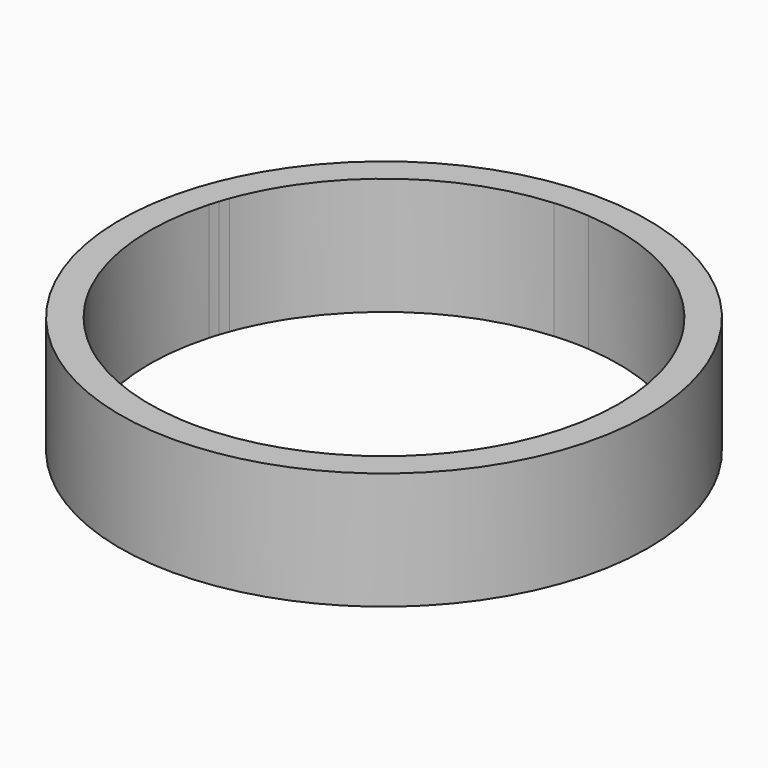
from build123d import *

# Parameters (mm, degrees)
F1_DEPTH = 2.54
F2_DEPTH = 25.4


with BuildPart() as f1:
    # F0 (on Top) → F1 (new body)
    with BuildSketch(Plane.XY):
        with BuildLine():
            ThreePointArc((48.915112113, 13.7095516693), (50.3265719841, 6.9192595218), (50.8, 0))
            ThreePointArc((50.8, 0), (49.520723989, -11.328631674), (45.7473269447, -22.0866945787))
            Line((45.7473269447, -22.0866945787), (49.4933518263, -28.575))
            ThreePointArc((49.4933518263, -28.575), (55.2026609724, -14.7915084276), (57.15, 0))
            ThreePointArc((57.15, 0), (56.446388665, 8.940229677), (54.3528799063, 17.6603212285))
            Line((54.3528799063, 17.6603212285), (48.915112113, 13.7095516693))
        make_face()
        with BuildLine():
            ThreePointArc((48.3136710278, 15.6980633142), (48.624557709, 14.7068823209), (48.915112113, 13.7095516693))
            Line((48.915112113, 13.7095516693), (54.3528799063, 17.6603212285))
            Line((54.3528799063, 17.6603212285), (47.6314292679, 17.6603212285))
            ThreePointArc((47.6314292679, 17.6603212285), (47.982582066, 16.6826801888), (48.3136710278, 15.6980633142))
        make_face()
        with BuildLine():
            Line((49.4933518263, -28.575), (45.7473269447, -22.0866945787))
            ThreePointArc((45.7473269447, -22.0866945787), (44.9012806053, -23.759524406), (43.9940905122, -25.4))
            ThreePointArc((43.9940905122, -25.4), (43.0269920201, -27.0058874637), (42.0013020632, -28.575))
            Line((42.0013020631, -28.575), (49.4933518263, -28.575))
        make_face()
        with BuildLine():
            Line((47.6314292679, 17.6603212285), (54.3528799063, 17.6603212285))
            ThreePointArc((54.3528799063, 17.6603212285), (52.2091229043, 23.2449991518), (49.4933518263, 28.575))
            Line((49.4933518263, 28.575), (45.7473269447, 22.0866945787))
            ThreePointArc((45.7473269447, 22.0866945787), (46.7418038079, 19.895823099), (47.6314292679, 17.6603212285))
        make_face()
        with BuildLine():
            ThreePointArc((33.5919271685, -46.2353212285), (42.470726776, -38.2408141534), (49.4933518263, -28.575))
            Line((49.4933518263, -28.575), (42.0013020631, -28.575))
            ThreePointArc((42.0013020632, -28.575), (37.1873431903, -34.6084022522), (31.5148846944, -39.8428418))
            Line((31.5148846944, -39.8428418), (33.5919271685, -46.2353212285))
        make_face()
        with BuildLine():
            Line((42.0013020632, 28.575), (49.4933518263, 28.575))
            ThreePointArc((49.4933518263, 28.575), (28.575, 49.4933518263), (0, 57.15))
            Line((0, 57.15), (3.7460248816, 50.6616945787))
            ThreePointArc((3.7460248816, 50.6616945787), (25.4, 43.9940905122), (42.0013020632, 28.575))
        make_face()
        with BuildLine():
            Line((45.7473269447, 22.0866945787), (49.4933518263, 28.575))
            Line((49.4933518263, 28.575), (42.0013020632, 28.575))
            ThreePointArc((42.0013020632, 28.575), (43.0269920201, 27.0058874637), (43.9940905122, 25.4))
            ThreePointArc((43.9940905122, 25.4), (44.9012806053, 23.759524406), (45.7473269447, 22.0866945787))
        make_face()
        with BuildLine():
            Line((28.1541593752, -42.2845516693), (33.5919271685, -46.2353212285))
            Line((33.5919271685, -46.2353212285), (31.5148846944, -39.8428418))
            ThreePointArc((31.5148846944, -39.8428418), (30.6936049952, -40.4789156525), (29.8594908165, -41.0980633142))
            ThreePointArc((29.8594908165, -41.0980633142), (29.0128909417, -41.7000258897), (28.1541593752, -42.2845516693))
        make_face()
        with BuildLine():
            ThreePointArc((0, -57.15), (17.6603212285, -54.3528799063), (33.5919271685, -46.2353212285))
            Line((33.5919271685, -46.2353212285), (28.1541593752, -42.2845516693))
            ThreePointArc((28.1541593752, -42.2845516693), (16.4908935396, -48.0488338075), (3.7460248816, -50.6616945787))
            Line((3.7460248816, -50.6616945787), (0, -57.15))
        make_face()
        with BuildLine():
            Line((-3.7460248816, 50.6616945787), (0, 57.15))
            ThreePointArc((0, 57.15), (-28.575, 49.4933518263), (-49.4933518263, 28.575))
            Line((-49.4933518263, 28.575), (-42.0013020632, 28.575))
            ThreePointArc((-42.0013020632, 28.575), (-25.4, 43.9940905122), (-3.7460248816, 50.6616945787))
        make_face()
        with BuildLine():
            Line((2.0770424741, 50.7575205714), (0, 57.15))
            Line((0, 57.15), (-2.0770424741, 50.7575205714))
            ThreePointArc((-2.0770424741, 50.7575205714), (-1.0387384104, 50.7893790326), (0, 50.8))
            ThreePointArc((0, 50.8), (1.0387384104, 50.7893790326), (2.0770424741, 50.7575205714))
        make_face()
        with BuildLine():
            Line((3.7460248816, 50.6616945787), (0, 57.15))
            Line((0, 57.15), (2.0770424741, 50.7575205714))
            ThreePointArc((2.0770424741, 50.7575205714), (2.9119278858, 50.7164734183), (3.7460248816, 50.6616945787))
        make_face()
        with BuildLine():
            Line((-2.0770424741, 50.7575205714), (0, 57.15))
            Line((0, 57.15), (-3.7460248816, 50.6616945787))
            ThreePointArc((-3.7460248816, 50.6616945787), (-2.9119278858, 50.7164734183), (-2.0770424741, 50.7575205714))
        make_face()
        with BuildLine():
            ThreePointArc((-33.5919271685, -46.2353212285), (-17.6603212285, -54.3528799063), (0, -57.15))
            Line((0, -57.15), (-3.7460248816, -50.6616945787))
            ThreePointArc((-3.7460248816, -50.6616945787), (-16.4908935396, -48.0488338075), (-28.1541593752, -42.2845516693))
            Line((-28.1541593752, -42.2845516693), (-33.5919271685, -46.2353212285))
        make_face()
        with BuildLine():
            Line((-3.7460248816, -50.6616945787), (0, -57.15))
            Line((0, -57.15), (3.7460248816, -50.6616945787))
            ThreePointArc((3.7460248816, -50.6616945787), (1.8742885852, -50.7654118697), (0, -50.8))
            ThreePointArc((0, -50.8), (-1.8742885852, -50.7654118697), (-3.7460248816, -50.6616945787))
        make_face()
        with BuildLine():
            Line((-45.7473269447, 22.0866945787), (-49.4933518263, 28.575))
            ThreePointArc((-49.4933518263, 28.575), (-52.2091229043, 23.2449991518), (-54.3528799063, 17.6603212285))
            Line((-54.3528799063, 17.6603212285), (-47.6314292679, 17.6603212285))
            ThreePointArc((-47.6314292679, 17.6603212285), (-46.7418038079, 19.895823099), (-45.7473269447, 22.0866945787))
        make_face()
        with BuildLine():
            Line((-42.0013020632, 28.575), (-49.4933518263, 28.575))
            Line((-49.4933518263, 28.575), (-45.7473269447, 22.0866945787))
            ThreePointArc((-45.7473269447, 22.0866945787), (-44.9012806053, 23.759524406), (-43.9940905122, 25.4))
            ThreePointArc((-43.9940905122, 25.4), (-43.0269920201, 27.0058874637), (-42.0013020632, 28.575))
        make_face()
        with BuildLine():
            Line((-31.5148846944, -39.8428418), (-33.5919271685, -46.2353212285))
            Line((-33.5919271685, -46.2353212285), (-28.1541593752, -42.2845516693))
            ThreePointArc((-28.1541593752, -42.2845516693), (-29.0128909417, -41.7000258897), (-29.8594908165, -41.0980633142))
            ThreePointArc((-29.8594908165, -41.0980633142), (-30.6936049952, -40.4789156525), (-31.5148846944, -39.8428418))
        make_face()
        with BuildLine():
            ThreePointArc((-49.4933518263, -28.575), (-42.470726776, -38.2408141534), (-33.5919271685, -46.2353212285))
            Line((-33.5919271685, -46.2353212285), (-31.5148846944, -39.8428418))
            ThreePointArc((-31.5148846944, -39.8428418), (-37.1873431903, -34.6084022522), (-42.0013020632, -28.575))
            Line((-42.0013020631, -28.575), (-49.4933518263, -28.575))
        make_face()
        with BuildLine():
            Line((-48.915112113, 13.7095516693), (-54.3528799063, 17.6603212285))
            ThreePointArc((-54.3528799063, 17.6603212285), (-56.8369263203, -5.9738016757), (-49.4933518263, -28.575))
            Line((-49.4933518263, -28.575), (-45.7473269447, -22.0866945787))
            ThreePointArc((-45.7473269447, -22.0866945787), (-50.6022445495, -4.478040481), (-48.915112113, 13.7095516693))
        make_face()
        with BuildLine():
            Line((-47.6314292679, 17.6603212285), (-54.3528799063, 17.6603212285))
            Line((-54.3528799063, 17.6603212285), (-48.915112113, 13.7095516693))
            ThreePointArc((-48.915112113, 13.7095516693), (-48.624557709, 14.7068823209), (-48.3136710278, 15.6980633142))
            ThreePointArc((-48.3136710278, 15.6980633142), (-47.982582066, 16.6826801888), (-47.6314292679, 17.6603212285))
        make_face()
        with BuildLine():
            Line((-45.7473269447, -22.0866945787), (-49.4933518263, -28.575))
            Line((-49.4933518263, -28.575), (-42.0013020631, -28.575))
            ThreePointArc((-42.0013020632, -28.575), (-43.0269920201, -27.0058874637), (-43.9940905122, -25.4))
            ThreePointArc((-43.9940905122, -25.4), (-44.9012806053, -23.759524406), (-45.7473269447, -22.0866945787))
        make_face()
        with BuildLine():
            Line((-3.7460248816, 50.6616945787), (0, 57.15))
            ThreePointArc((0, 57.15), (-28.575, 49.4933518263), (-49.4933518263, 28.575))
            Line((-49.4933518263, 28.575), (-42.0013020632, 28.575))
            ThreePointArc((-42.0013020632, 28.575), (-25.4, 43.9940905122), (-3.7460248816, 50.6616945787))
        make_face()
    extrude(amount=F1_DEPTH)

    # F0 (on Top) → F2 (join)
    with BuildSketch(Plane.XY):
        with BuildLine():
            ThreePointArc((48.915112113, 13.7095516693), (50.3265719841, 6.9192595218), (50.8, 0))
            ThreePointArc((50.8, 0), (49.520723989, -11.328631674), (45.7473269447, -22.0866945787))
            Line((45.7473269447, -22.0866945787), (49.4933518263, -28.575))
            ThreePointArc((49.4933518263, -28.575), (55.2026609724, -14.7915084276), (57.15, 0))
            ThreePointArc((57.15, 0), (56.446388665, 8.940229677), (54.3528799063, 17.6603212285))
            Line((54.3528799063, 17.6603212285), (48.915112113, 13.7095516693))
        make_face()
        with BuildLine():
            ThreePointArc((48.3136710278, 15.6980633142), (48.624557709, 14.7068823209), (48.915112113, 13.7095516693))
            Line((48.915112113, 13.7095516693), (54.3528799063, 17.6603212285))
            Line((54.3528799063, 17.6603212285), (47.6314292679, 17.6603212285))
            ThreePointArc((47.6314292679, 17.6603212285), (47.982582066, 16.6826801888), (48.3136710278, 15.6980633142))
        make_face()
        with BuildLine():
            Line((49.4933518263, -28.575), (45.7473269447, -22.0866945787))
            ThreePointArc((45.7473269447, -22.0866945787), (44.9012806053, -23.759524406), (43.9940905122, -25.4))
            ThreePointArc((43.9940905122, -25.4), (43.0269920201, -27.0058874637), (42.0013020632, -28.575))
            Line((42.0013020631, -28.575), (49.4933518263, -28.575))
        make_face()
        with BuildLine():
            Line((47.6314292679, 17.6603212285), (54.3528799063, 17.6603212285))
            ThreePointArc((54.3528799063, 17.6603212285), (52.2091229043, 23.2449991518), (49.4933518263, 28.575))
            Line((49.4933518263, 28.575), (45.7473269447, 22.0866945787))
            ThreePointArc((45.7473269447, 22.0866945787), (46.7418038079, 19.895823099), (47.6314292679, 17.6603212285))
        make_face()
        with BuildLine():
            ThreePointArc((33.5919271685, -46.2353212285), (42.470726776, -38.2408141534), (49.4933518263, -28.575))
            Line((49.4933518263, -28.575), (42.0013020631, -28.575))
            ThreePointArc((42.0013020632, -28.575), (37.1873431903, -34.6084022522), (31.5148846944, -39.8428418))
            Line((31.5148846944, -39.8428418), (33.5919271685, -46.2353212285))
        make_face()
        with BuildLine():
            Line((42.0013020632, 28.575), (49.4933518263, 28.575))
            ThreePointArc((49.4933518263, 28.575), (28.575, 49.4933518263), (0, 57.15))
            Line((0, 57.15), (3.7460248816, 50.6616945787))
            ThreePointArc((3.7460248816, 50.6616945787), (25.4, 43.9940905122), (42.0013020632, 28.575))
        make_face()
        with BuildLine():
            Line((45.7473269447, 22.0866945787), (49.4933518263, 28.575))
            Line((49.4933518263, 28.575), (42.0013020632, 28.575))
            ThreePointArc((42.0013020632, 28.575), (43.0269920201, 27.0058874637), (43.9940905122, 25.4))
            ThreePointArc((43.9940905122, 25.4), (44.9012806053, 23.759524406), (45.7473269447, 22.0866945787))
        make_face()
        with BuildLine():
            Line((28.1541593752, -42.2845516693), (33.5919271685, -46.2353212285))
            Line((33.5919271685, -46.2353212285), (31.5148846944, -39.8428418))
            ThreePointArc((31.5148846944, -39.8428418), (30.6936049952, -40.4789156525), (29.8594908165, -41.0980633142))
            ThreePointArc((29.8594908165, -41.0980633142), (29.0128909417, -41.7000258897), (28.1541593752, -42.2845516693))
        make_face()
        with BuildLine():
            ThreePointArc((0, -57.15), (17.6603212285, -54.3528799063), (33.5919271685, -46.2353212285))
            Line((33.5919271685, -46.2353212285), (28.1541593752, -42.2845516693))
            ThreePointArc((28.1541593752, -42.2845516693), (16.4908935396, -48.0488338075), (3.7460248816, -50.6616945787))
            Line((3.7460248816, -50.6616945787), (0, -57.15))
        make_face()
        with BuildLine():
            Line((-3.7460248816, 50.6616945787), (0, 57.15))
            ThreePointArc((0, 57.15), (-28.575, 49.4933518263), (-49.4933518263, 28.575))
            Line((-49.4933518263, 28.575), (-42.0013020632, 28.575))
            ThreePointArc((-42.0013020632, 28.575), (-25.4, 43.9940905122), (-3.7460248816, 50.6616945787))
        make_face()
        with BuildLine():
            Line((2.0770424741, 50.7575205714), (0, 57.15))
            Line((0, 57.15), (-2.0770424741, 50.7575205714))
            ThreePointArc((-2.0770424741, 50.7575205714), (-1.0387384104, 50.7893790326), (0, 50.8))
            ThreePointArc((0, 50.8), (1.0387384104, 50.7893790326), (2.0770424741, 50.7575205714))
        make_face()
        with BuildLine():
            Line((3.7460248816, 50.6616945787), (0, 57.15))
            Line((0, 57.15), (2.0770424741, 50.7575205714))
            ThreePointArc((2.0770424741, 50.7575205714), (2.9119278858, 50.7164734183), (3.7460248816, 50.6616945787))
        make_face()
        with BuildLine():
            Line((-2.0770424741, 50.7575205714), (0, 57.15))
            Line((0, 57.15), (-3.7460248816, 50.6616945787))
            ThreePointArc((-3.7460248816, 50.6616945787), (-2.9119278858, 50.7164734183), (-2.0770424741, 50.7575205714))
        make_face()
        with BuildLine():
            ThreePointArc((-33.5919271685, -46.2353212285), (-17.6603212285, -54.3528799063), (0, -57.15))
            Line((0, -57.15), (-3.7460248816, -50.6616945787))
            ThreePointArc((-3.7460248816, -50.6616945787), (-16.4908935396, -48.0488338075), (-28.1541593752, -42.2845516693))
            Line((-28.1541593752, -42.2845516693), (-33.5919271685, -46.2353212285))
        make_face()
        with BuildLine():
            Line((-3.7460248816, -50.6616945787), (0, -57.15))
            Line((0, -57.15), (3.7460248816, -50.6616945787))
            ThreePointArc((3.7460248816, -50.6616945787), (1.8742885852, -50.7654118697), (0, -50.8))
            ThreePointArc((0, -50.8), (-1.8742885852, -50.7654118697), (-3.7460248816, -50.6616945787))
        make_face()
        with BuildLine():
            Line((-45.7473269447, 22.0866945787), (-49.4933518263, 28.575))
            ThreePointArc((-49.4933518263, 28.575), (-52.2091229043, 23.2449991518), (-54.3528799063, 17.6603212285))
            Line((-54.3528799063, 17.6603212285), (-47.6314292679, 17.6603212285))
            ThreePointArc((-47.6314292679, 17.6603212285), (-46.7418038079, 19.895823099), (-45.7473269447, 22.0866945787))
        make_face()
        with BuildLine():
            Line((-42.0013020632, 28.575), (-49.4933518263, 28.575))
            Line((-49.4933518263, 28.575), (-45.7473269447, 22.0866945787))
            ThreePointArc((-45.7473269447, 22.0866945787), (-44.9012806053, 23.759524406), (-43.9940905122, 25.4))
            ThreePointArc((-43.9940905122, 25.4), (-43.0269920201, 27.0058874637), (-42.0013020632, 28.575))
        make_face()
        with BuildLine():
            Line((-31.5148846944, -39.8428418), (-33.5919271685, -46.2353212285))
            Line((-33.5919271685, -46.2353212285), (-28.1541593752, -42.2845516693))
            ThreePointArc((-28.1541593752, -42.2845516693), (-29.0128909417, -41.7000258897), (-29.8594908165, -41.0980633142))
            ThreePointArc((-29.8594908165, -41.0980633142), (-30.6936049952, -40.4789156525), (-31.5148846944, -39.8428418))
        make_face()
        with BuildLine():
            ThreePointArc((-49.4933518263, -28.575), (-42.470726776, -38.2408141534), (-33.5919271685, -46.2353212285))
            Line((-33.5919271685, -46.2353212285), (-31.5148846944, -39.8428418))
            ThreePointArc((-31.5148846944, -39.8428418), (-37.1873431903, -34.6084022522), (-42.0013020632, -28.575))
            Line((-42.0013020631, -28.575), (-49.4933518263, -28.575))
        make_face()
        with BuildLine():
            Line((-48.915112113, 13.7095516693), (-54.3528799063, 17.6603212285))
            ThreePointArc((-54.3528799063, 17.6603212285), (-56.8369263203, -5.9738016757), (-49.4933518263, -28.575))
            Line((-49.4933518263, -28.575), (-45.7473269447, -22.0866945787))
            ThreePointArc((-45.7473269447, -22.0866945787), (-50.6022445495, -4.478040481), (-48.915112113, 13.7095516693))
        make_face()
        with BuildLine():
            Line((-47.6314292679, 17.6603212285), (-54.3528799063, 17.6603212285))
            Line((-54.3528799063, 17.6603212285), (-48.915112113, 13.7095516693))
            ThreePointArc((-48.915112113, 13.7095516693), (-48.624557709, 14.7068823209), (-48.3136710278, 15.6980633142))
            ThreePointArc((-48.3136710278, 15.6980633142), (-47.982582066, 16.6826801888), (-47.6314292679, 17.6603212285))
        make_face()
        with BuildLine():
            Line((-45.7473269447, -22.0866945787), (-49.4933518263, -28.575))
            Line((-49.4933518263, -28.575), (-42.0013020631, -28.575))
            ThreePointArc((-42.0013020632, -28.575), (-43.0269920201, -27.0058874637), (-43.9940905122, -25.4))
            ThreePointArc((-43.9940905122, -25.4), (-44.9012806053, -23.759524406), (-45.7473269447, -22.0866945787))
        make_face()
    extrude(amount=F2_DEPTH)


solid = f1.part
